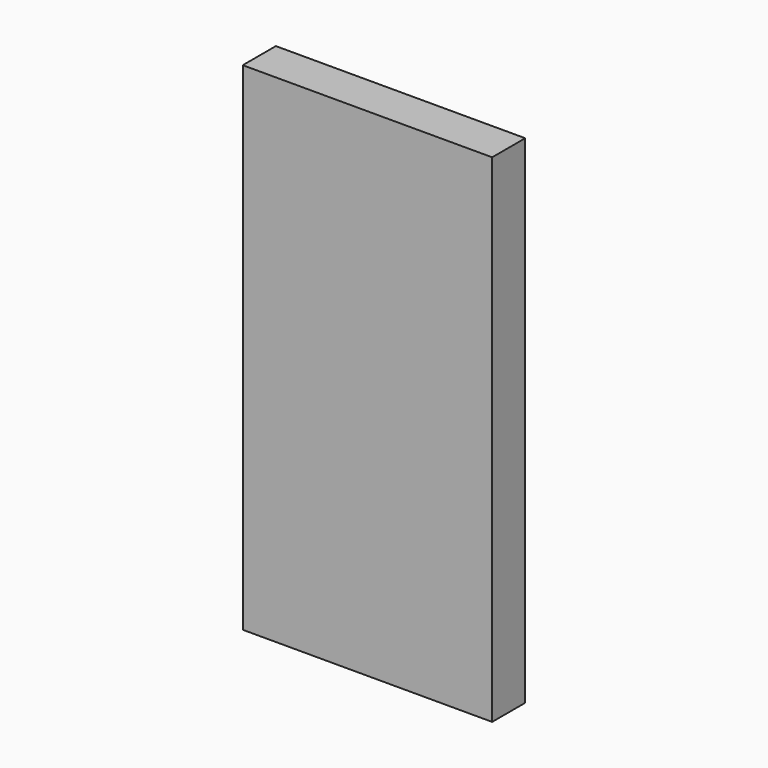
from build123d import *

# Parameters (mm, degrees)
F1_DEPTH = 12.7


with BuildPart() as f1:
    # F0 (on Front) → F1 (new body)
    with BuildSketch(Plane.XZ):
        Polygon((0, -76.21821), (0, 0), (0, 76.445878), (-38.299073, 76.445878), (-38.299073, -76.21821), align=None)
    extrude(amount=F1_DEPTH)

    # F2: F1 across plane


with BuildPart() as f1_1:
    add(f1.part)
    add(f1.part.mirror(Plane.YZ))


solid = f1_1.part
